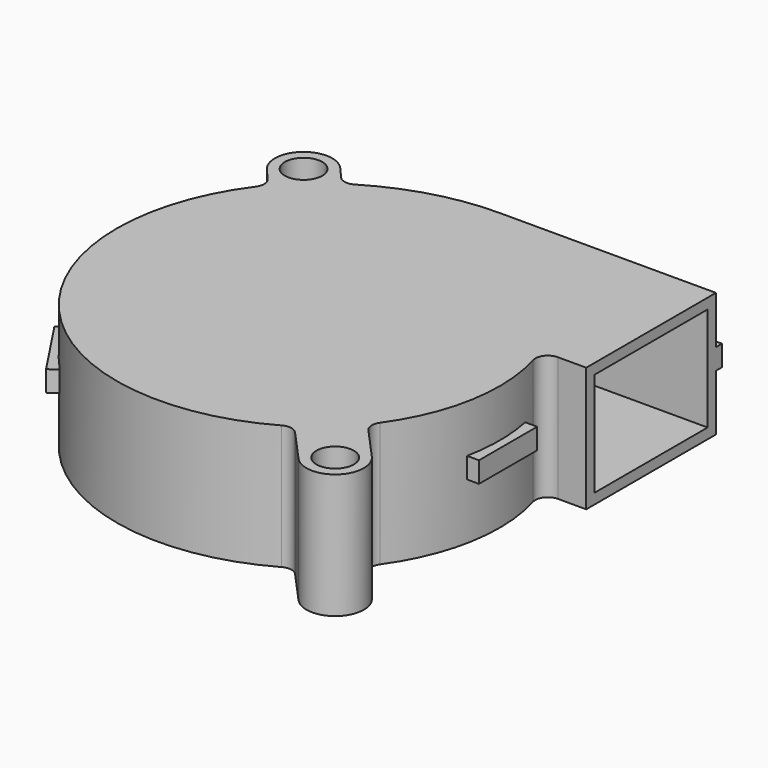
from build123d import *

# Parameters (mm, degrees)
F0_R          = 2.25
F1_DEPTH      = 7
F1_DEPTH_BACK = 8
F2_R          = 16
F3_DEPTH      = 3
F4_W          = 12
F4_H          = 2.605645
F4_W_2        = 2.164235
F4_H_2        = 8.75
F5_DEPTH      = 1.25
F6_W          = 17
F6_H          = 12.5
F7_DEPTH      = 15


with BuildPart() as f1:
    # F0 (on Top) → F1 (new body, two sides)
    with BuildSketch(Plane.XY) as f1_sk:
        with BuildLine():
            Line((26, 8), (26, 27.5))
            Line((26, 27.5), (0, 27.5))
            ThreePointArc((0, 27.5), (-7.390942, 26.488186), (-14.23801, 23.527198))
            ThreePointArc((-14.23801, 23.527198), (-15.246821, 23.32858), (-16.146537, 23.826232))
            Line((-16.146537, 23.826232), (-17.396611, 25.263817))
            ThreePointArc((-17.396611, 25.263817), (-22.263817, 25.603389), (-22.603389, 20.736183))
            Line((-22.603389, 20.736183), (-21.316096, 19.255796))
            ThreePointArc((-21.316096, 19.255796), (-20.949135, 18.329769), (-21.243133, 17.378059))
            ThreePointArc((-21.243133, 17.378059), (-19.890092, -13.900871), (10.993048, -19.042257))
            ThreePointArc((10.993048, -19.042257), (11.971845, -18.865751), (12.845895, -19.340339))
            Line((12.845895, -19.340339), (16.441702, -23.314651))
            ThreePointArc((16.441702, -23.314651), (21.314651, -23.558298), (21.558298, -18.685349))
            Line((21.558298, -18.685349), (17.971026, -14.720469))
            ThreePointArc((17.971026, -14.720469), (17.585694, -13.798288), (17.865245, -12.838731))
            ThreePointArc((17.865245, -12.838731), (21.677485, -3.753219), (21.1417, 6.085106))
            ThreePointArc((21.1417, 6.085106), (21.384776, 7.402125), (22.58318, 8))
            Line((22.58318, 8), (26, 8))
        make_face()
        with Locations((19, -21)):
            Circle(F0_R, mode=Mode.SUBTRACT)
        with Locations((-20, 23)):
            Circle(F0_R, mode=Mode.SUBTRACT)
    extrude(amount=F1_DEPTH)
    extrude(f1_sk.sketch, amount=-F1_DEPTH_BACK)

    # F2 (on face) → F3 (cut)
    with BuildSketch(Plane(origin=(0, 0, -8), x_dir=(1, 0, 0), z_dir=(0, 0, -1))):
        Circle(F2_R)
    extrude(amount=-F3_DEPTH, mode=Mode.SUBTRACT)

    # F4 (on Top) → F5 (join, symmetric)
    with BuildSketch(Plane.XY):
        with Locations((20, 27.097178)):
            Rectangle(F4_W, F4_H)
        with Locations((21.917882, 0)):
            Rectangle(F4_W_2, F4_H_2)
        Polygon((-22.531997, -6.254788), (-25.167336, -8), (-20.336118, -15.29533), (-17.700779, -13.550117), align=None)
    extrude(amount=F5_DEPTH, both=True)

    # F6 (on face) → F7 (cut)
    with BuildSketch(Plane.YZ.offset(26)):
        with Locations((17.75, -0.5)):
            Rectangle(F6_W, F6_H)
    extrude(amount=-F7_DEPTH, mode=Mode.SUBTRACT)


solid = f1.part
